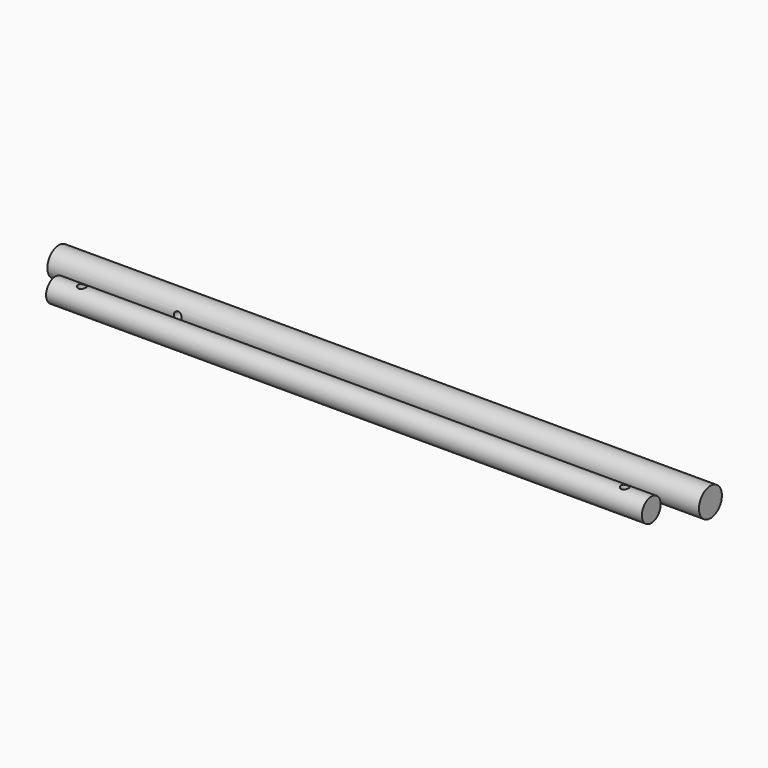
from build123d import *

# Parameters (mm, degrees)
F0_R     = 11
F1_DEPTH = 250
F2_R     = 3
F3_DEPTH = 12.7
F0_R_2   = 9
F4_DEPTH = 228.6
F5_R     = 3
F6_DEPTH = 12.7


with BuildPart() as f1:
    # F0 (on Right) → F1 (new body, symmetric)
    with BuildSketch(Plane.YZ):
        Circle(F0_R)
    extrude(amount=F1_DEPTH, both=True)

    # F2 (on Front) → F3 (cut, symmetric)
    with BuildSketch(Plane.XZ):
        with Locations((-150, 0)):
            Circle(F2_R)
    extrude(amount=F3_DEPTH, both=True, mode=Mode.SUBTRACT)


with BuildPart() as f4:
    # F0 (on Right) → F4 (new body, symmetric)
    with BuildSketch(Plane.YZ):
        with Locations((-30, 0)):
            Circle(F0_R_2)
    extrude(amount=F4_DEPTH, both=True)

    # F5 (on Top) → F6 (cut, symmetric)
    with BuildSketch(Plane.XY):
        with Locations((-208.28, -30)):
            Circle(F5_R)
        with Locations((208.28, -30)):
            Circle(F5_R)
    extrude(amount=F6_DEPTH, both=True, mode=Mode.SUBTRACT)


solid = Compound([f1.part, f4.part])
